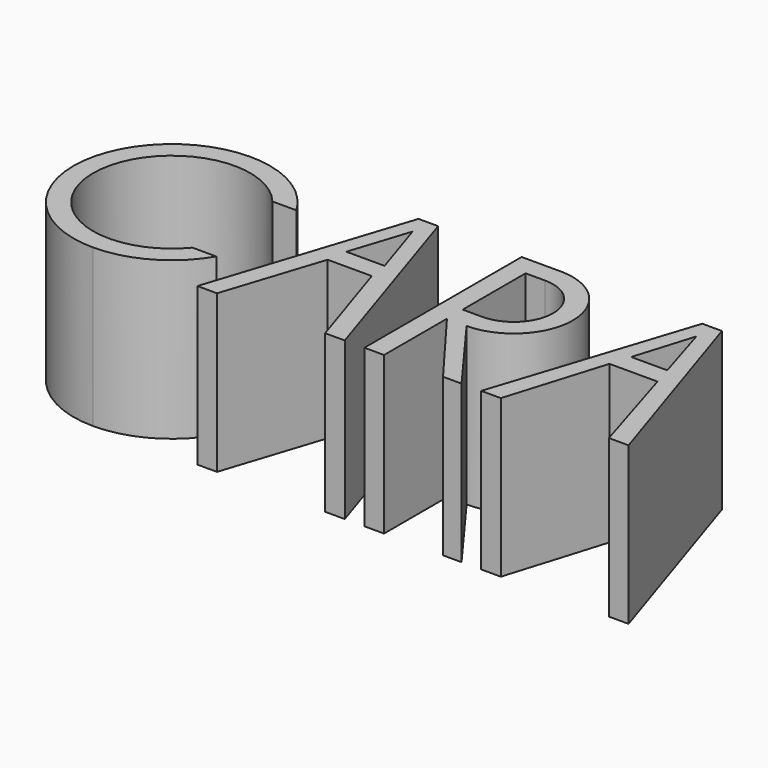
from build123d import *

# Parameters (mm, degrees)
F1_DEPTH = 40


with BuildPart() as f1:
    # F0 (on Top) → F1 (new body)
    with BuildSketch(Plane.XY):
        with BuildLine():
            Line((18.296868, 12.724129), (21.519678, 12.724129))
            ThreePointArc((21.519678, 12.724129), (12.387428, 21.715239), (0, 25))
            ThreePointArc((0, 25), (-25, 0), (0, -25))
            ThreePointArc((0, -25), (12.387428, -21.715239), (21.519678, -12.724129))
            Line((21.519678, -12.724129), (15.430377, -12.724129))
            ThreePointArc((15.430377, -12.724129), (-20, 0), (15.430377, 12.724129))
            Line((15.430377, 12.724129), (18.296868, 12.724129))
        make_face()
        Polygon((45.265663, 25), (42.765663, 25), (26.519678, -25), (31.519678, -25), (39.64267, 0), (45.265663, 0), (45.265663, 4.999997), (40.391866, 4.999997), (45.265663, 20), align=None)
        Polygon((47.765663, 25), (45.265663, 25), (45.265663, 20), (50.139459, 4.999997), (45.265663, 4.999997), (45.265663, 0), (50.888656, 0), (59.011647, -25), (63.039356, -25), (64.011647, -25), align=None)
        Polygon((74.011647, 25), (69.011647, 25), (69.011647, -25), (74.011647, -25), (74.011647, -5), (74.011647, 0), (74.011647, 20), align=None)
        Polygon((93.721762, -25), (79.011647, -5), (74.011647, -5), (89.011647, -25), align=None)
        with BuildLine():
            Line((79.011647, 25), (74.011647, 25))
            Line((74.011647, 25), (74.011647, 20))
            Line((74.011647, 20), (79.011647, 20))
            ThreePointArc((79.011647, 20), (89.011647, 10), (79.011647, 0))
            Line((79.011647, 0), (74.011647, 0))
            Line((74.011647, 0), (74.011647, -5))
            Line((74.011647, -5), (79.011647, -5))
            ThreePointArc((79.011647, -5), (94.011647, 10), (79.011647, 25))
        make_face()
        Polygon((114.967747, 25), (98.721762, -25), (103.721762, -25), (111.358421, 0), (112.885752, 5), (117.467747, 20), (117.467747, 25), align=None)
        Polygon((112.885752, 5), (111.358421, 0), (117.467747, 0), (117.467747, 5), align=None)
        Polygon((117.467747, 5), (117.467747, 0), (123.577074, 0), (122.049742, 5), align=None)
        Polygon((119.967747, 25), (117.467747, 25), (117.467747, 20), (122.049742, 5), (123.577074, 0), (131.213732, -25), (136.213732, -25), align=None)
    extrude(amount=F1_DEPTH)


solid = f1.part
